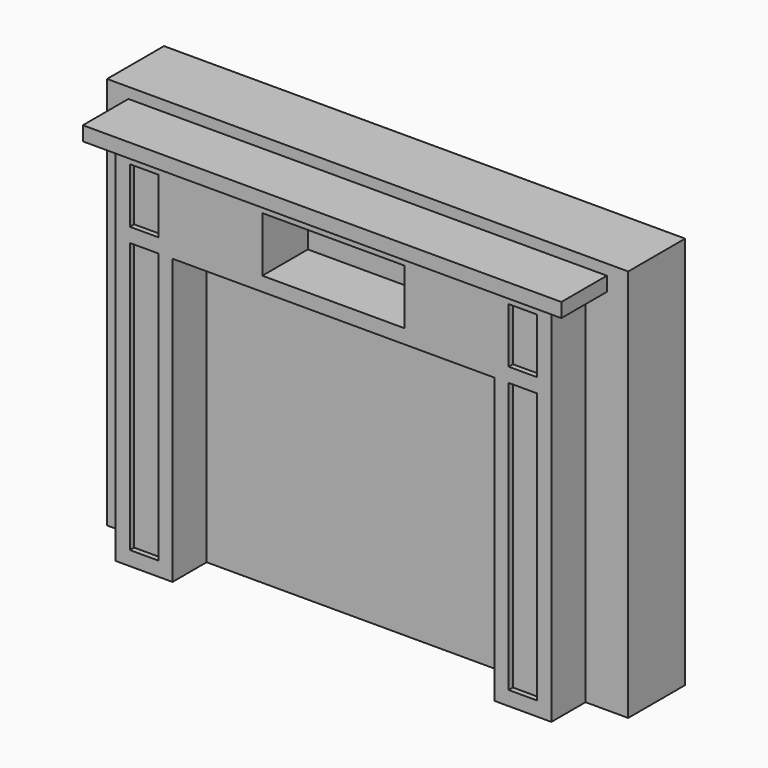
from build123d import *

# Parameters (mm, degrees)
F0_W      = 1860.55
F0_H      = 1403.35
F2_DEPTH  = 254
F3_W      = 1708.15
F3_H      = 50.8
F4_DEPTH  = 203.2
F5_W      = 101.6
F5_H      = 965.2
F5_H_2    = 196.85
F6_DEPTH  = 152.4
F7_W      = 508
F7_H      = 196.85
F8_DEPTH  = 203.2
F9_W      = 101.6
F9_H      = 965.2
F9_H_2    = 196.85
F10_DEPTH = 133.35


with BuildPart() as f2:
    # F0 (on Front) → F2 (new body)
    with BuildSketch(Plane.XZ):
        with Locations((930.275, 701.675)):
            Rectangle(F0_W, F0_H)
    extrude(amount=-F2_DEPTH)

    # F3 (on face) → F4 (join)
    with BuildSketch(Plane.XZ):
        with Locations((930.275, 1339.85)):
            Rectangle(F3_W, F3_H)
    extrude(amount=F4_DEPTH)

    # F5 (on face) → F6 (join)
    with BuildSketch(Plane.XZ):
        Polygon((152.4, 1314.45), (152.4, 0), (355.6, 0), (355.6, 1016), (1504.95, 1016), (1504.95, 0), (1708.15, 0), (1708.15, 1314.45), align=None)
        with Locations((254, 533.4)):
            Rectangle(F5_W, F5_H, mode=Mode.SUBTRACT)
        with Locations((1606.55, 533.4)):
            Rectangle(F5_W, F5_H, mode=Mode.SUBTRACT)
        with Locations((254, 1165.225)):
            Rectangle(F5_W, F5_H_2, mode=Mode.SUBTRACT)
        with Locations((1606.55, 1165.225)):
            Rectangle(F5_W, F5_H_2, mode=Mode.SUBTRACT)
    extrude(amount=F6_DEPTH)

    # F7 (on face) → F8 (cut)
    with BuildSketch(Plane.XZ.offset(152.4)):
        with Locations((930.275, 1165.225)):
            Rectangle(F7_W, F7_H)
    extrude(amount=-F8_DEPTH, mode=Mode.SUBTRACT)

    # F9 (on face) → F10 (join)
    with BuildSketch(Plane.XZ):
        with Locations((254, 533.4)):
            Rectangle(F9_W, F9_H)
        with Locations((254, 1165.225)):
            Rectangle(F9_W, F9_H_2)
        with Locations((1606.55, 1165.225)):
            Rectangle(F9_W, F9_H_2)
        with Locations((1606.55, 533.4)):
            Rectangle(F9_W, F9_H)
    extrude(amount=F10_DEPTH)


solid = f2.part
